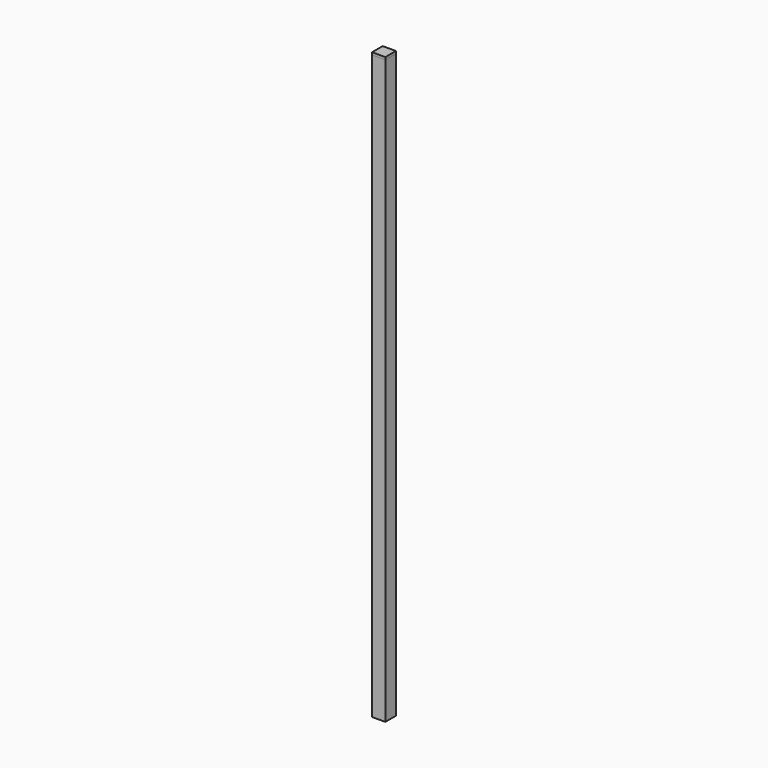
from build123d import *

# Parameters (mm, degrees)
F0_W     = 25.4
F0_H     = 25.4
F0_W_2   = 22.225
F0_H_2   = 22.225
F1_DEPTH = 558.8
F2_W     = 25.4
F2_H     = 25.4
F3_DEPTH = 4.7625


with BuildPart() as f1:
    # F0 (on Top) → F1 (new body, symmetric)
    with BuildSketch(Plane.XY):
        Rectangle(F0_W, F0_H)
        Rectangle(F0_W_2, F0_H_2, mode=Mode.SUBTRACT)
    extrude(amount=F1_DEPTH, both=True)


with BuildPart() as f3:
    # F2 (on face) → F3 (new body)
    with BuildSketch(Plane.XY.offset(558.8)):
        Rectangle(F2_W, F2_H)
    extrude(amount=F3_DEPTH)


solid = Compound([f1.part, f3.part])
